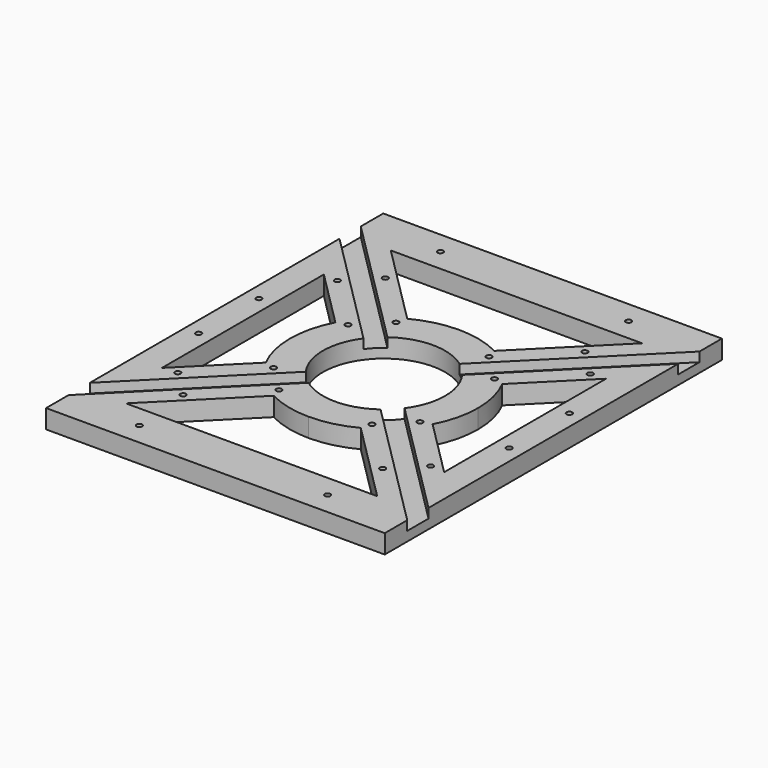
from build123d import *

# Parameters (mm, degrees)
F0_W     = 180
F0_H     = 224
F0_R     = 1.5
F0_R_2   = 32.5
F1_DEPTH = 10
F3_DEPTH = 5


with BuildPart() as f1:
    # F0 (on Top) → F1 (new body)
    with BuildSketch(Plane.XY):
        Rectangle(F0_W, F0_H)
        with Locations((-50, -100)):
            Circle(F0_R, mode=Mode.SUBTRACT)
        with Locations((-82.5, -20)):
            Circle(F0_R, mode=Mode.SUBTRACT)
        with Locations((50, -100)):
            Circle(F0_R, mode=Mode.SUBTRACT)
        with Locations((82.5, -20)):
            Circle(F0_R, mode=Mode.SUBTRACT)
        with Locations((-82.5, 20)):
            Circle(F0_R, mode=Mode.SUBTRACT)
        with Locations((-50, 100)):
            Circle(F0_R, mode=Mode.SUBTRACT)
        Polygon((75, -53.7867965644), (75, -75), (75, -88), (66.7867965644, -88), (-66.7867965644, -88), (-75, -88), (-75, -75), (-75, -53.7867965644), (-75, 53.7867965644), (-75, 75), (-75, 88), (-66.7867965644, 88), (66.7867965644, 88), (75, 88), (75, 75), (75, 53.7867965644), align=None, mode=Mode.SUBTRACT)
        with Locations((82.5, 20)):
            Circle(F0_R, mode=Mode.SUBTRACT)
        with Locations((50, 100)):
            Circle(F0_R, mode=Mode.SUBTRACT)
        with BuildLine():
            Line((-53.7867965644, 75), (-66.7867965644, 88))
            Line((-66.7867965644, 88), (-75, 88))
            Line((-75, 88), (-75, 75))
            Line((-75, 75), (-75, 53.7867965644))
            Line((-75, 53.7867965644), (-44.3334456259, 23.1202421903))
            ThreePointArc((-44.3334456259, 23.1202421903), (-35.3553390593, 35.3553390593), (-23.1202421903, 44.3334456259))
            Line((-23.1202421903, 44.3334456259), (-53.7867965644, 75))
        make_face()
        with Locations((-67.1751442127, 53.033008589)):
            Circle(F0_R, mode=Mode.SUBTRACT)
        with Locations((-53.033008589, 67.1751442127)):
            Circle(F0_R, mode=Mode.SUBTRACT)
        with BuildLine():
            ThreePointArc((23.1202421903, -44.3334456259), (35.3553390593, -35.3553390593), (44.3334456259, -23.1202421903))
            ThreePointArc((44.3334456259, -23.1202421903), (48.5627031851, -11.9022627829), (50, 0))
            ThreePointArc((50, 0), (48.5627031851, 11.9022627829), (44.3334456259, 23.1202421903))
            ThreePointArc((44.3334456259, 23.1202421903), (40.3112887415, 29.5803989155), (35.3553390593, 35.3553390593))
            ThreePointArc((35.3553390593, 35.3553390593), (29.5803989155, 40.3112887415), (23.1202421903, 44.3334456259))
            ThreePointArc((23.1202421903, 44.3334456259), (11.9022627829, 48.5627031851), (0, 50))
            ThreePointArc((0, 50), (-11.9022627829, 48.5627031851), (-23.1202421903, 44.3334456259))
            ThreePointArc((-23.1202421903, 44.3334456259), (-35.3553390593, 35.3553390593), (-44.3334456259, 23.1202421903))
            ThreePointArc((-44.3334456259, 23.1202421903), (-48.5627031851, 11.9022627829), (-50, 0))
            ThreePointArc((-50, 0), (-48.5627031851, -11.9022627829), (-44.3334456259, -23.1202421903))
            ThreePointArc((-44.3334456259, -23.1202421903), (-35.3553390593, -35.3553390593), (-23.1202421903, -44.3334456259))
            ThreePointArc((-23.1202421903, -44.3334456259), (-11.9022627829, -48.5627031851), (0, -50))
            ThreePointArc((0, -50), (11.9022627829, -48.5627031851), (23.1202421903, -44.3334456259))
        make_face()
        with Locations((-24.7487373415, -38.8908729653)):
            Circle(F0_R, mode=Mode.SUBTRACT)
        with Locations((-38.8908729653, -24.7487373415)):
            Circle(F0_R, mode=Mode.SUBTRACT)
        with Locations((24.7487373415, -38.8908729653)):
            Circle(F0_R, mode=Mode.SUBTRACT)
        with Locations((38.8908729653, -24.7487373415)):
            Circle(F0_R, mode=Mode.SUBTRACT)
        with Locations((-38.8908729653, 24.7487373415)):
            Circle(F0_R, mode=Mode.SUBTRACT)
        with Locations((-24.7487373415, 38.8908729653)):
            Circle(F0_R, mode=Mode.SUBTRACT)
        Circle(F0_R_2, mode=Mode.SUBTRACT)
        with Locations((38.8908729653, 24.7487373415)):
            Circle(F0_R, mode=Mode.SUBTRACT)
        with Locations((24.7487373415, 38.8908729653)):
            Circle(F0_R, mode=Mode.SUBTRACT)
        with BuildLine():
            Line((44.3334456259, 23.1202421903), (75, 53.7867965644))
            Line((75, 53.7867965644), (75, 75))
            Line((75, 75), (75, 88))
            Line((75, 88), (66.7867965644, 88))
            Line((66.7867965644, 88), (53.7867965644, 75))
            Line((53.7867965644, 75), (23.1202421903, 44.3334456259))
            ThreePointArc((23.1202421903, 44.3334456259), (29.5803989155, 40.3112887415), (35.3553390593, 35.3553390593))
            ThreePointArc((35.3553390593, 35.3553390593), (40.3112887415, 29.5803989155), (44.3334456259, 23.1202421903))
        make_face()
        with Locations((67.1751442127, 53.033008589)):
            Circle(F0_R, mode=Mode.SUBTRACT)
        with Locations((53.033008589, 67.1751442127)):
            Circle(F0_R, mode=Mode.SUBTRACT)
        with BuildLine():
            Line((75, -88), (75, -75))
            Line((75, -75), (75, -53.7867965644))
            Line((75, -53.7867965644), (44.3334456259, -23.1202421903))
            ThreePointArc((44.3334456259, -23.1202421903), (35.3553390593, -35.3553390593), (23.1202421903, -44.3334456259))
            Line((23.1202421903, -44.3334456259), (53.7867965644, -75))
            Line((53.7867965644, -75), (66.7867965644, -88))
            Line((66.7867965644, -88), (75, -88))
        make_face()
        with Locations((53.033008589, -67.1751442127)):
            Circle(F0_R, mode=Mode.SUBTRACT)
        with Locations((67.1751442127, -53.033008589)):
            Circle(F0_R, mode=Mode.SUBTRACT)
        with BuildLine():
            Line((-75, -88), (-66.7867965644, -88))
            Line((-66.7867965644, -88), (-23.1202421903, -44.3334456259))
            ThreePointArc((-23.1202421903, -44.3334456259), (-35.3553390593, -35.3553390593), (-44.3334456259, -23.1202421903))
            Line((-44.3334456259, -23.1202421903), (-75, -53.7867965644))
            Line((-75, -53.7867965644), (-75, -75))
            Line((-75, -75), (-75, -88))
        make_face()
        with Locations((-53.033008589, -67.1751442127)):
            Circle(F0_R, mode=Mode.SUBTRACT)
        with Locations((-67.1751442127, -53.033008589)):
            Circle(F0_R, mode=Mode.SUBTRACT)
        with BuildLine():
            Line((-53.7867965644, 75), (-66.7867965644, 88))
            Line((-66.7867965644, 88), (-75, 88))
            Line((-75, 88), (-75, 75))
            Line((-75, 75), (-75, 53.7867965644))
            Line((-75, 53.7867965644), (-44.3334456259, 23.1202421903))
            ThreePointArc((-44.3334456259, 23.1202421903), (-35.3553390593, 35.3553390593), (-23.1202421903, 44.3334456259))
            Line((-23.1202421903, 44.3334456259), (-53.7867965644, 75))
        make_face()
        with Locations((-67.1751442127, 53.033008589)):
            Circle(F0_R, mode=Mode.SUBTRACT)
        with Locations((-53.033008589, 67.1751442127)):
            Circle(F0_R, mode=Mode.SUBTRACT)
        with BuildLine():
            Line((44.3334456259, 23.1202421903), (75, 53.7867965644))
            Line((75, 53.7867965644), (75, 75))
            Line((75, 75), (75, 88))
            Line((75, 88), (66.7867965644, 88))
            Line((66.7867965644, 88), (53.7867965644, 75))
            Line((53.7867965644, 75), (23.1202421903, 44.3334456259))
            ThreePointArc((23.1202421903, 44.3334456259), (29.5803989155, 40.3112887415), (35.3553390593, 35.3553390593))
            ThreePointArc((35.3553390593, 35.3553390593), (40.3112887415, 29.5803989155), (44.3334456259, 23.1202421903))
        make_face()
        with Locations((67.1751442127, 53.033008589)):
            Circle(F0_R, mode=Mode.SUBTRACT)
        with Locations((53.033008589, 67.1751442127)):
            Circle(F0_R, mode=Mode.SUBTRACT)
    extrude(amount=F1_DEPTH)

    # F2 (on face) → F3 (cut)
    with BuildSketch(Plane.XY.offset(10)):
        with BuildLine():
            Line((-90, 97.0710678119), (-90, 82.9289321881))
            Line((-90, 82.9289321881), (-26.2429115617, 19.1718437498))
            ThreePointArc((-26.2429115617, 19.1718437498), (-22.9809703886, 22.9809703886), (-19.1718437498, 26.2429115617))
            Line((-19.1718437498, 26.2429115617), (-90, 97.0710678119))
        make_face()
        with BuildLine():
            Line((90, 97.0710678119), (19.1718437498, 26.2429115617))
            ThreePointArc((19.1718437498, 26.2429115617), (22.9809703886, 22.9809703886), (26.2429115617, 19.1718437498))
            Line((26.2429115617, 19.1718437498), (90, 82.9289321881))
            Line((90, 82.9289321881), (90, 97.0710678119))
        make_face()
        with BuildLine():
            ThreePointArc((26.2429115617, -19.1718437498), (22.9809703886, -22.9809703886), (19.1718437498, -26.2429115617))
            Line((19.1718437498, -26.2429115617), (90, -97.0710678119))
            Line((90, -97.0710678119), (90, -82.9289321881))
            Line((90, -82.9289321881), (26.2429115617, -19.1718437498))
        make_face()
        with BuildLine():
            Line((-26.2429115617, -19.1718437498), (-90, -82.9289321881))
            Line((-90, -82.9289321881), (-90, -97.0710678119))
            Line((-90, -97.0710678119), (-19.1718437498, -26.2429115617))
            ThreePointArc((-19.1718437498, -26.2429115617), (-22.9809703886, -22.9809703886), (-26.2429115617, -19.1718437498))
        make_face()
    extrude(amount=-F3_DEPTH, mode=Mode.SUBTRACT)


solid = f1.part
